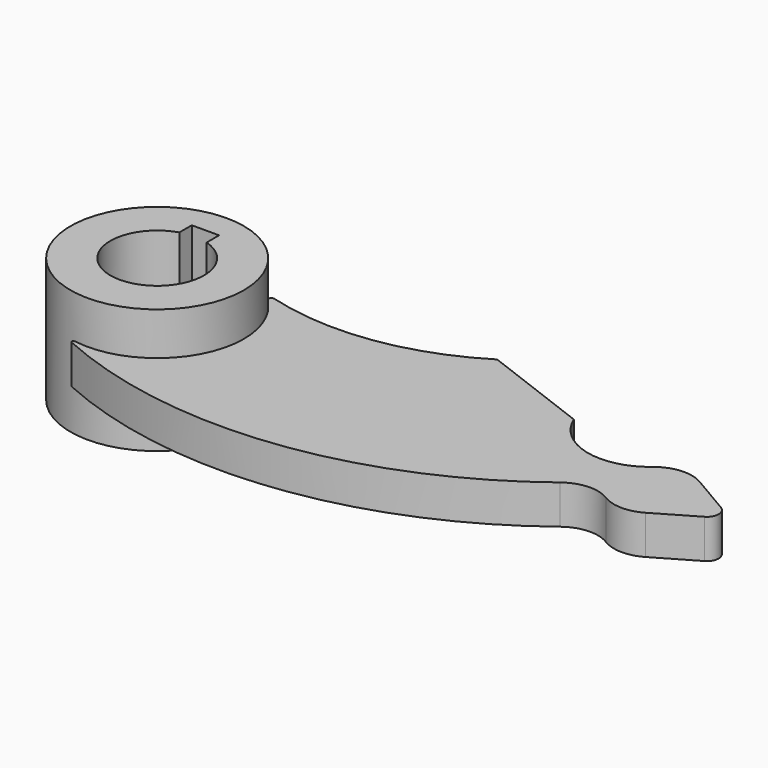
from build123d import *

# Parameters (mm, degrees)
F1_DEPTH = 15.875
F2_R     = 70.64375
F3_DEPTH = 50.8


with BuildPart() as f1:
    # F0 (on Top) → F1 (new body, symmetric)
    with BuildSketch(Plane.XY):
        with BuildLine():
            ThreePointArc((214.0429582689, 78.5021666116), (135.1426887504, 49.6734632535), (51.3239932557, 55.2208007216))
            ThreePointArc((51.3239932557, 55.2208007216), (48.3240107377, 53.8275326792), (49.2448874204, 50.6505723267))
            ThreePointArc((49.2448874204, 50.6505723267), (63.1490502428, -31.6660207082), (-11.1351814225, -69.7606418315))
            ThreePointArc((-11.1351814225, -69.7606418315), (-12.6279755061, -70.6394230316), (-11.8555099032, -72.1899027849))
            ThreePointArc((-11.8555099032, -72.1899027849), (175.5219606246, -100.6779781173), (350.9193591325, -28.8612704918))
            ThreePointArc((350.9193591325, -28.8612704918), (368.6661659856, -22.2694269513), (387.009926427, -26.9500260171))
            ThreePointArc((387.009926427, -26.9500260171), (403.281578789, -31.6726186916), (419.6651697435, -27.3543436198))
            Line((419.6651697435, -27.3543436198), (452.4721534977, -8.2287874757))
            ThreePointArc((452.4721534977, -8.2287874757), (457.1999861821, -0.0162243816), (452.5001585836, 8.212397314))
            Line((452.5001585836, 8.212397314), (419.75852003, 27.4496056792))
            ThreePointArc((419.75852003, 27.4496056792), (401.084074029, 31.7190844567), (383.352674206, 24.4691987482))
            ThreePointArc((383.352674206, 24.4691987482), (338.4707971933, 14.2282569652), (303.7446396069, 44.45))
            Line((303.7446396069, 44.45), (214.0429582689, 78.5021666116))
        make_face()
    extrude(amount=F1_DEPTH, both=True)

    # F2 (on Top) → F3 (join, symmetric)
    with BuildSketch(Plane.XY):
        Circle(F2_R)
        with BuildLine():
            ThreePointArc((11.1125, 36.46996667), (0, -38.1254), (-11.1125, 36.46996667))
            Line((-11.1125, 36.46996667), (-11.1125, 49.1236))
            Line((-11.1125, 49.1236), (11.1125, 49.1236))
            Line((11.1125, 49.1236), (11.1125, 36.46996667))
        make_face(mode=Mode.SUBTRACT)
    extrude(amount=F3_DEPTH, both=True)


solid = f1.part
